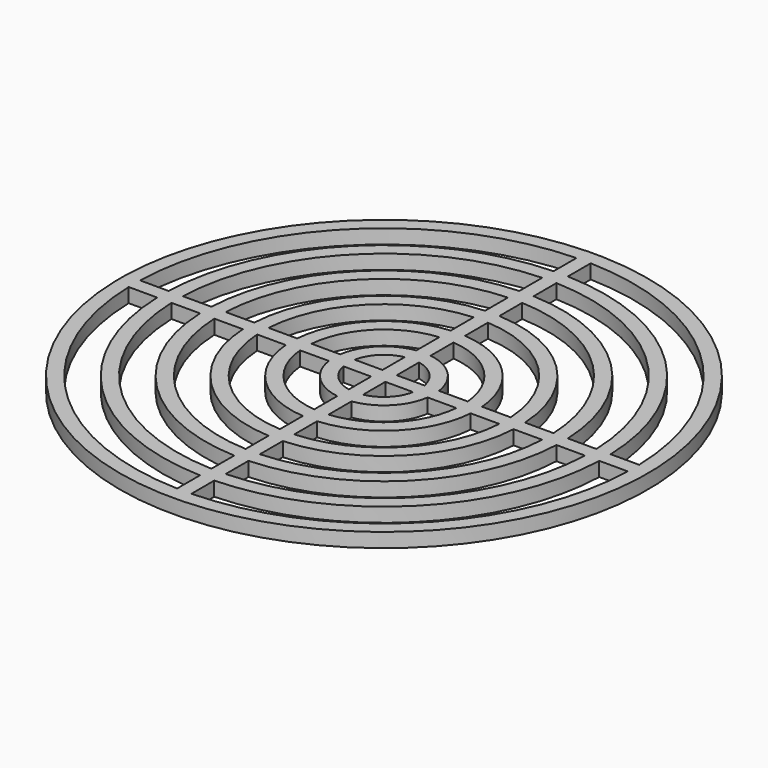
from build123d import *

# Parameters (mm, degrees)
F1_DEPTH = 1


with BuildPart() as f1:
    # F0 (on Top) → F1 (new body)
    with BuildSketch(Plane.XY):
        with BuildLine():
            Line((-18.493242, 0.5), (-18.493242, -0.5))
            ThreePointArc((-18.493242, -0.5), (13.081475, -13.081475), (0.5, 18.493242))
            Line((0.5, 18.493242), (-0.5, 18.493242))
            ThreePointArc((-0.5, 18.493242), (-13.081475, 13.081475), (-18.493242, 0.5))
        make_face()
        with BuildLine():
            Line((-17.492856, -0.5), (-15.491933, -0.5))
            ThreePointArc((-15.491933, -0.5), (-10.960155, -10.960155), (-0.5, -15.491933))
            Line((-0.5, -15.491933), (-0.5, -17.492856))
            ThreePointArc((-0.5, -17.492856), (-12.374369, -12.374369), (-17.492856, -0.5))
        make_face(mode=Mode.SUBTRACT)
        with BuildLine():
            Line((-14.491377, -0.5), (-12.489996, -0.5))
            ThreePointArc((-12.489996, -0.5), (-8.838835, -8.838835), (-0.5, -12.489996))
            Line((-0.5, -12.489996), (-0.5, -14.491377))
            ThreePointArc((-0.5, -14.491377), (-10.253048, -10.253048), (-14.491377, -0.5))
        make_face(mode=Mode.SUBTRACT)
        with BuildLine():
            Line((-11.489125, -0.5), (-9.486833, -0.5))
            ThreePointArc((-9.486833, -0.5), (-6.717514, -6.717514), (-0.5, -9.486833))
            Line((-0.5, -9.486833), (-0.5, -11.489125))
            ThreePointArc((-0.5, -11.489125), (-8.131728, -8.131728), (-11.489125, -0.5))
        make_face(mode=Mode.SUBTRACT)
        with BuildLine():
            Line((-8.485281, -0.5), (-6.480741, -0.5))
            ThreePointArc((-6.480741, -0.5), (-4.596194, -4.596194), (-0.5, -6.480741))
            Line((-0.5, -6.480741), (-0.5, -8.485281))
            ThreePointArc((-0.5, -8.485281), (-6.010408, -6.010408), (-8.485281, -0.5))
        make_face(mode=Mode.SUBTRACT)
        with BuildLine():
            Line((-5.477226, -0.5), (-3.464102, -0.5))
            ThreePointArc((-3.464102, -0.5), (-2.474874, -2.474874), (-0.5, -3.464102))
            Line((-0.5, -3.464102), (-0.5, -5.477226))
            ThreePointArc((-0.5, -5.477226), (-3.889087, -3.889087), (-5.477226, -0.5))
        make_face(mode=Mode.SUBTRACT)
        with BuildLine():
            ThreePointArc((-0.5, -2.44949), (-1.767767, -1.767767), (-2.44949, -0.5))
            Line((-2.44949, -0.5), (-0.5, -0.5))
            Line((-0.5, -0.5), (-0.5, -2.44949))
        make_face(mode=Mode.SUBTRACT)
        with BuildLine():
            Line((15.491933, -0.5), (17.492856, -0.5))
            ThreePointArc((17.492856, -0.5), (12.374369, -12.374369), (0.5, -17.492856))
            Line((0.5, -17.492856), (0.5, -15.491933))
            ThreePointArc((0.5, -15.491933), (10.960155, -10.960155), (15.491933, -0.5))
        make_face(mode=Mode.SUBTRACT)
        with BuildLine():
            Line((12.489996, -0.5), (14.491377, -0.5))
            ThreePointArc((14.491377, -0.5), (10.253048, -10.253048), (0.5, -14.491377))
            Line((0.5, -14.491377), (0.5, -12.489996))
            ThreePointArc((0.5, -12.489996), (8.838835, -8.838835), (12.489996, -0.5))
        make_face(mode=Mode.SUBTRACT)
        with BuildLine():
            Line((9.486833, -0.5), (11.489125, -0.5))
            ThreePointArc((11.489125, -0.5), (8.131728, -8.131728), (0.5, -11.489125))
            Line((0.5, -11.489125), (0.5, -9.486833))
            ThreePointArc((0.5, -9.486833), (6.717514, -6.717514), (9.486833, -0.5))
        make_face(mode=Mode.SUBTRACT)
        with BuildLine():
            Line((6.480741, -0.5), (8.485281, -0.5))
            ThreePointArc((8.485281, -0.5), (6.010408, -6.010408), (0.5, -8.485281))
            Line((0.5, -8.485281), (0.5, -6.480741))
            ThreePointArc((0.5, -6.480741), (4.596194, -4.596194), (6.480741, -0.5))
        make_face(mode=Mode.SUBTRACT)
        with BuildLine():
            Line((3.464102, -0.5), (5.477226, -0.5))
            ThreePointArc((5.477226, -0.5), (3.889087, -3.889087), (0.5, -5.477226))
            Line((0.5, -5.477226), (0.5, -3.464102))
            ThreePointArc((0.5, -3.464102), (2.474874, -2.474874), (3.464102, -0.5))
        make_face(mode=Mode.SUBTRACT)
        with BuildLine():
            Line((0.5, -2.44949), (0.5, -0.5))
            Line((0.5, -0.5), (2.44949, -0.5))
            ThreePointArc((2.44949, -0.5), (1.767767, -1.767767), (0.5, -2.44949))
        make_face(mode=Mode.SUBTRACT)
        with BuildLine():
            Line((-0.5, 2.44949), (-0.5, 0.5))
            Line((-0.5, 0.5), (-2.44949, 0.5))
            ThreePointArc((-2.44949, 0.5), (-1.767767, 1.767767), (-0.5, 2.44949))
        make_face(mode=Mode.SUBTRACT)
        with BuildLine():
            Line((-3.464102, 0.5), (-5.477226, 0.5))
            ThreePointArc((-5.477226, 0.5), (-3.889087, 3.889087), (-0.5, 5.477226))
            Line((-0.5, 5.477226), (-0.5, 3.464102))
            ThreePointArc((-0.5, 3.464102), (-2.474874, 2.474874), (-3.464102, 0.5))
        make_face(mode=Mode.SUBTRACT)
        with BuildLine():
            Line((-6.480741, 0.5), (-8.485281, 0.5))
            ThreePointArc((-8.485281, 0.5), (-6.010408, 6.010408), (-0.5, 8.485281))
            Line((-0.5, 8.485281), (-0.5, 6.480741))
            ThreePointArc((-0.5, 6.480741), (-4.596194, 4.596194), (-6.480741, 0.5))
        make_face(mode=Mode.SUBTRACT)
        with BuildLine():
            Line((-9.486833, 0.5), (-11.489125, 0.5))
            ThreePointArc((-11.489125, 0.5), (-8.131728, 8.131728), (-0.5, 11.489125))
            Line((-0.5, 11.489125), (-0.5, 9.486833))
            ThreePointArc((-0.5, 9.486833), (-6.717514, 6.717514), (-9.486833, 0.5))
        make_face(mode=Mode.SUBTRACT)
        with BuildLine():
            Line((-12.489996, 0.5), (-14.491377, 0.5))
            ThreePointArc((-14.491377, 0.5), (-10.253048, 10.253048), (-0.5, 14.491377))
            Line((-0.5, 14.491377), (-0.5, 12.489996))
            ThreePointArc((-0.5, 12.489996), (-8.838835, 8.838835), (-12.489996, 0.5))
        make_face(mode=Mode.SUBTRACT)
        with BuildLine():
            Line((-15.491933, 0.5), (-17.492856, 0.5))
            ThreePointArc((-17.492856, 0.5), (-12.374369, 12.374369), (-0.5, 17.492856))
            Line((-0.5, 17.492856), (-0.5, 15.491933))
            ThreePointArc((-0.5, 15.491933), (-10.960155, 10.960155), (-15.491933, 0.5))
        make_face(mode=Mode.SUBTRACT)
        with BuildLine():
            Line((2.44949, 0.5), (0.5, 0.5))
            Line((0.5, 0.5), (0.5, 2.44949))
            ThreePointArc((0.5, 2.44949), (1.767767, 1.767767), (2.44949, 0.5))
        make_face(mode=Mode.SUBTRACT)
        with BuildLine():
            Line((5.477226, 0.5), (3.464102, 0.5))
            ThreePointArc((3.464102, 0.5), (2.474874, 2.474874), (0.5, 3.464102))
            Line((0.5, 3.464102), (0.5, 5.477226))
            ThreePointArc((0.5, 5.477226), (3.889087, 3.889087), (5.477226, 0.5))
        make_face(mode=Mode.SUBTRACT)
        with BuildLine():
            Line((8.485281, 0.5), (6.480741, 0.5))
            ThreePointArc((6.480741, 0.5), (4.596194, 4.596194), (0.5, 6.480741))
            Line((0.5, 6.480741), (0.5, 8.485281))
            ThreePointArc((0.5, 8.485281), (6.010408, 6.010408), (8.485281, 0.5))
        make_face(mode=Mode.SUBTRACT)
        with BuildLine():
            Line((11.489125, 0.5), (9.486833, 0.5))
            ThreePointArc((9.486833, 0.5), (6.717514, 6.717514), (0.5, 9.486833))
            Line((0.5, 9.486833), (0.5, 11.489125))
            ThreePointArc((0.5, 11.489125), (8.131728, 8.131728), (11.489125, 0.5))
        make_face(mode=Mode.SUBTRACT)
        with BuildLine():
            Line((14.491377, 0.5), (12.489996, 0.5))
            ThreePointArc((12.489996, 0.5), (8.838835, 8.838835), (0.5, 12.489996))
            Line((0.5, 12.489996), (0.5, 14.491377))
            ThreePointArc((0.5, 14.491377), (10.253048, 10.253048), (14.491377, 0.5))
        make_face(mode=Mode.SUBTRACT)
        with BuildLine():
            Line((0.5, 15.491933), (0.5, 17.492856))
            ThreePointArc((0.5, 17.492856), (12.374369, 12.374369), (17.492856, 0.5))
            Line((17.492856, 0.5), (15.491933, 0.5))
            ThreePointArc((15.491933, 0.5), (10.960155, 10.960155), (0.5, 15.491933))
        make_face(mode=Mode.SUBTRACT)
    extrude(amount=F1_DEPTH)


solid = f1.part
